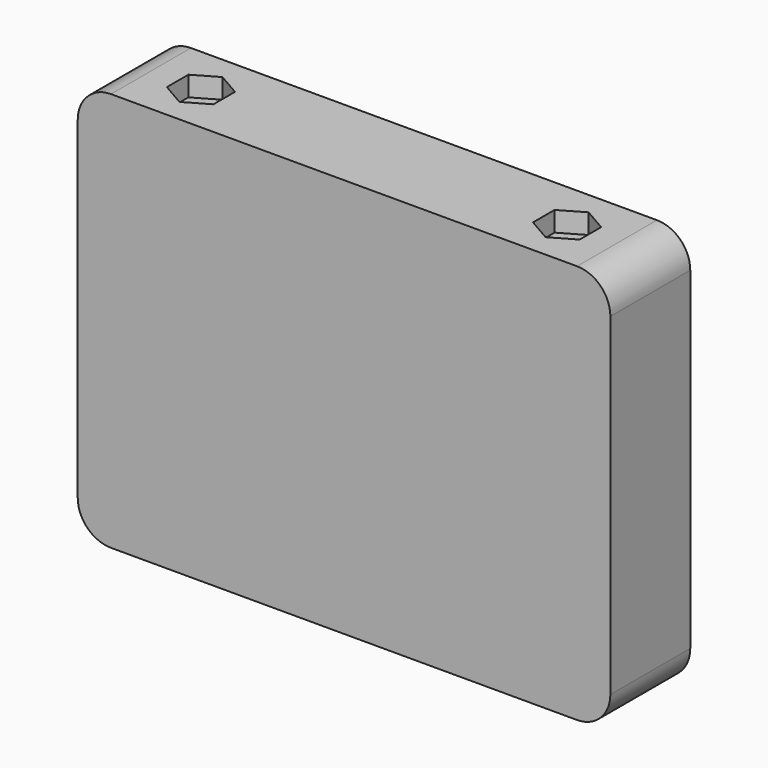
from build123d import *

# Parameters (mm, degrees)
F1_DEPTH = 15
F2_R     = 7.5
F3_DEPTH = 13
F4_R     = 2
F5_DEPTH = 6
F7_DEPTH = 3


with BuildPart() as f1:
    # F0 (on Front) → F1 (new body)
    with BuildSketch(Plane.XZ):
        with BuildLine():
            Line((-0.08701, 32.806785), (-70.08701, 32.806785))
            ThreePointArc((-70.08701, 32.806785), (-73.622544, 31.342318), (-75.08701, 27.806785))
            Line((-75.08701, 27.806785), (-75.08701, -22.193215))
            ThreePointArc((-75.08701, -22.193215), (-73.622544, -25.728749), (-70.08701, -27.193215))
            Line((-70.08701, -27.193215), (-0.08701, -27.193215))
            ThreePointArc((-0.08701, -27.193215), (3.448524, -25.728749), (4.91299, -22.193215))
            Line((4.91299, -22.193215), (4.91299, 27.806785))
            ThreePointArc((4.91299, 27.806785), (3.448524, 31.342318), (-0.08701, 32.806785))
        make_face()
    extrude(amount=F1_DEPTH)

    # F2 (on face) → F3 (cut)
    with BuildSketch(Plane(origin=(0, 0, 0), x_dir=(-1, 0, 0), z_dir=(0, 1, 0))):
        with Locations((7.58701, 20.306785)):
            Circle(F2_R)
        with Locations((62.58701, 20.306785)):
            Circle(F2_R)
        with Locations((62.58701, -14.693215)):
            Circle(F2_R)
        with Locations((7.58701, -14.693215)):
            Circle(F2_R)
    extrude(amount=-F3_DEPTH, mode=Mode.SUBTRACT)

    # F4 (on face) → F5 (cut)
    with BuildSketch(Plane.XY.offset(32.806785)):
        with Locations((-62.58701, -7.5)):
            Circle(F4_R)
        with Locations((-7.58701, -7.5)):
            Circle(F4_R)
    extrude(amount=-F5_DEPTH, mode=Mode.SUBTRACT)

    # F6 (on face) → F7 (cut)
    with BuildSketch(Plane.XY.offset(32.806785)):
        Polygon((-59.08701, -9.520726), (-59.08701, -5.479274), (-62.58701, -3.458548), (-66.08701, -5.479274), (-66.08701, -9.520726), (-62.58701, -11.541452), align=None)
        Polygon((-4.08701, -9.520726), (-4.08701, -5.479274), (-7.58701, -3.458548), (-11.08701, -5.479274), (-11.08701, -9.520726), (-7.58701, -11.541452), align=None)
    extrude(amount=-F7_DEPTH, mode=Mode.SUBTRACT)


solid = f1.part
